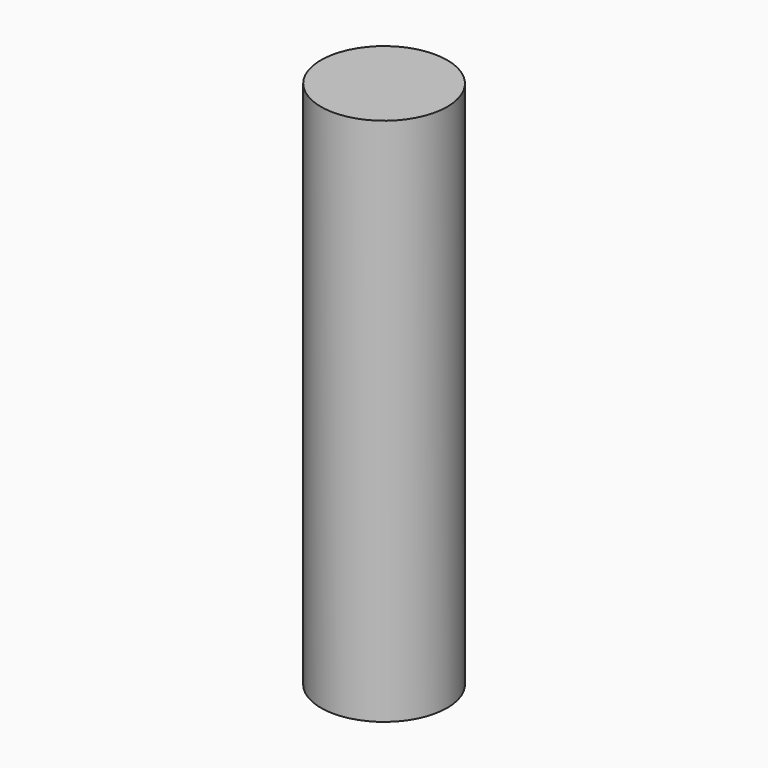
from build123d import *

# Parameters (mm, degrees)
CYLINDER_R     = 1.7907
CYLINDER_DEPTH = 15


with BuildPart() as part:
    # Cylinder → Cylinder (new body)
    with BuildSketch(Plane.XY.offset(-2.5)):
        Circle(CYLINDER_R)
    extrude(amount=CYLINDER_DEPTH)


solid = part.part
